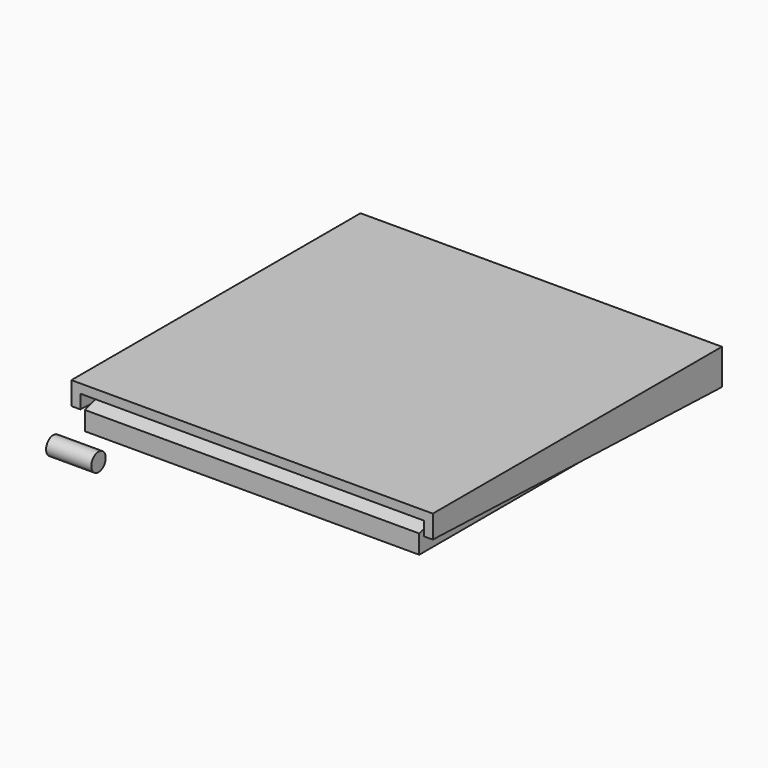
from build123d import *

# Parameters (mm, degrees)
CYLINDER002_R           = 2
CYLINDER002_DEPTH       = 10
CYLINDER002_PITCH_ANGLE = 90
BOX004_W                = 80
BOX004_H                = 3
BOX004_DEPTH            = 2
CYLINDER_R              = 1.5
CYLINDER_DEPTH          = 80
CYLINDER_PITCH_ANGLE    = 90
BOX002_W                = 84
BOX002_H                = 84
BOX002_DEPTH            = 3
BOX002_ROLL_ANGLE       = -2
BOX001_W                = 76
BOX001_H                = 80
BOX001_DEPTH            = 12
BOX_W                   = 80
BOX_H                   = 80
BOX_DEPTH               = 8
BOX006_W                = 90
BOX006_H                = 10
BOX006_DEPTH            = 10
BOX006_ROLL_ANGLE       = 17.5
CYLINDER003_R           = 1.65
CYLINDER003_DEPTH       = 88
CYLINDER003_PITCH_ANGLE = 90
BOX005_W                = 70
BOX005_H                = 62
BOX005_DEPTH            = 6
BOX003_W                = 74
BOX003_H                = 80
BOX003_DEPTH            = 6


with BuildPart() as cylinder002:
    # Cylinder002 → Cylinder002 (new body)
    with BuildSketch(Plane.XY):
        Circle(CYLINDER002_R)
    extrude(amount=CYLINDER002_DEPTH)


with BuildPart() as cylinder002_1:
    # Cylinder002 pitch: moved
    add(cylinder002.part.rotate(Axis((0, 0, 0), (0, 1, 0)), CYLINDER002_PITCH_ANGLE))


with BuildPart() as cylinder002_2:
    # Cylinder002 placement: moved
    add(cylinder002_1.part.moved(Location((-4, 0, 0))))


with BuildPart() as cube004:
    # Box004 → Box004 (new body)
    with BuildSketch(Plane(origin=(0, 1.5, 11), x_dir=(1, 0, 0), z_dir=(0, 0, 1))):
        with Locations((40, 1.5)):
            Rectangle(BOX004_W, BOX004_H)
    extrude(amount=BOX004_DEPTH)


with BuildPart() as fusion:
    # Cylinder → Cylinder (new body)
    with BuildSketch(Plane.XY):
        Circle(CYLINDER_R)
    extrude(amount=CYLINDER_DEPTH)


with BuildPart() as fusion_1:
    # Cylinder pitch: moved
    add(fusion.part.rotate(Axis((0, 0, 0), (0, 1, 0)), CYLINDER_PITCH_ANGLE))


with BuildPart() as fusion_2:
    # Cylinder placement: moved
    add(fusion_1.part.moved(Location((0, 3, 11))))

    # Fusion: union Cube004
    add(cube004.part)


with BuildPart() as fusion_3:
    # Fusion placement: moved
    add(fusion_2.part.moved(Location((0, 5, 0))))


with BuildPart() as cube002:
    # Box002 → Box002 (new body)
    with BuildSketch(Plane.XY):
        with Locations((42, 42)):
            Rectangle(BOX002_W, BOX002_H)
    extrude(amount=BOX002_DEPTH)


with BuildPart() as cube002_1:
    # Box002 roll: moved
    add(cube002.part.rotate(Axis((0, 0, 0), (1, 0, 0)), BOX002_ROLL_ANGLE))


with BuildPart() as cube002_2:
    # Box002 placement: moved
    add(cube002_1.part.moved(Location((-2, -2, 6))))


with BuildPart() as cube001:
    # Box001 → Box001 (new body)
    with BuildSketch(Plane(origin=(2, 0, 0), x_dir=(1, 0, 0), z_dir=(0, 0, 1))):
        with Locations((38, 40)):
            Rectangle(BOX001_W, BOX001_H)
    extrude(amount=BOX001_DEPTH)


with BuildPart() as top:
    # Box → Box (new body)
    with BuildSketch(Plane.XY.offset(6)):
        with Locations((40, 40)):
            Rectangle(BOX_W, BOX_H)
    extrude(amount=BOX_DEPTH)

    # Cut: cut Cube001
    add(cube001.part, mode=Mode.SUBTRACT)

    # Cut001: cut Cube002
    add(cube002_2.part, mode=Mode.SUBTRACT)

    # Fusion001: union Fusion
    add(fusion_3.part)


with BuildPart() as cube006:
    # Box006 → Box006 (new body)
    with BuildSketch(Plane.XY):
        with Locations((45, 5)):
            Rectangle(BOX006_W, BOX006_H)
    extrude(amount=BOX006_DEPTH)


with BuildPart() as cube006_1:
    # Box006 roll: moved
    add(cube006.part.rotate(Axis((0, 0, 0), (1, 0, 0)), BOX006_ROLL_ANGLE))


with BuildPart() as cube006_2:
    # Box006 placement: moved
    add(cube006_1.part.moved(Location((0, -0.5, 9))))


with BuildPart() as cylinder003:
    # Cylinder003 → Cylinder003 (new body)
    with BuildSketch(Plane.XY):
        Circle(CYLINDER003_R)
    extrude(amount=CYLINDER003_DEPTH)


with BuildPart() as cylinder003_1:
    # Cylinder003 pitch: moved
    add(cylinder003.part.rotate(Axis((0, 0, 0), (0, 1, 0)), CYLINDER003_PITCH_ANGLE))


with BuildPart() as cylinder003_2:
    # Cylinder003 placement: moved
    add(cylinder003_1.part.moved(Location((-4, 8, 11))))


with BuildPart() as cube005:
    # Box005 → Box005 (new body)
    with BuildSketch(Plane(origin=(5, 16, 7), x_dir=(1, 0, 0), z_dir=(0, 0, 1))):
        with Locations((35, 31)):
            Rectangle(BOX005_W, BOX005_H)
    extrude(amount=BOX005_DEPTH)


with BuildPart() as bottom:
    # Box003 → Box003 (new body)
    with BuildSketch(Plane(origin=(3, 0, 5), x_dir=(1, 0, 0), z_dir=(0, 0, 1))):
        with Locations((37, 40)):
            Rectangle(BOX003_W, BOX003_H)
    extrude(amount=BOX003_DEPTH)

    # Cut002: cut Cube005
    add(cube005.part, mode=Mode.SUBTRACT)

    # Cut003: cut Cylinder003
    add(cylinder003_2.part, mode=Mode.SUBTRACT)

    # Cut004: cut Cube006
    add(cube006_2.part, mode=Mode.SUBTRACT)


solid = Compound([cylinder002_2.part, top.part, bottom.part])
